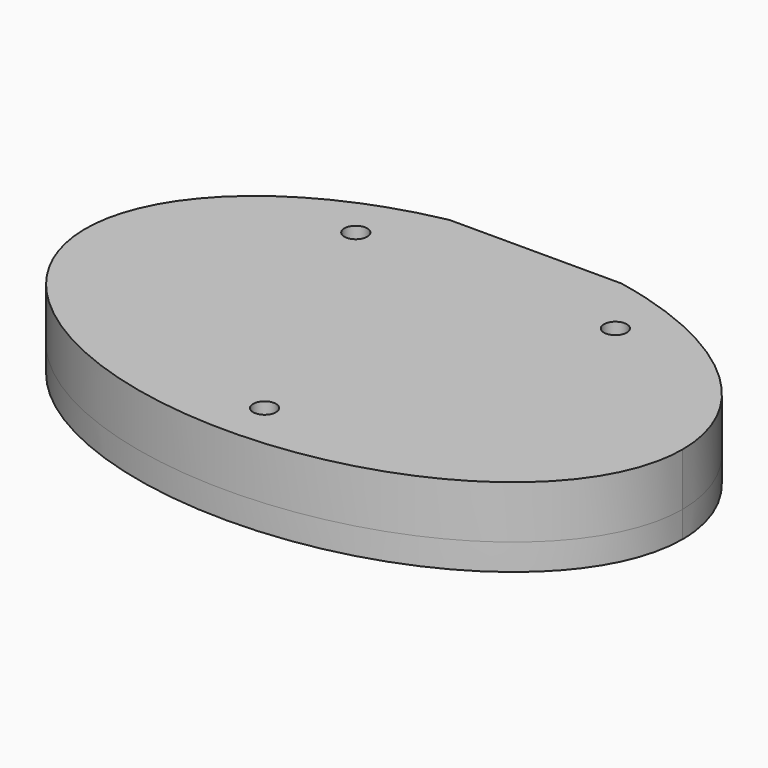
from build123d import *

# Parameters (mm, degrees)
PAD_DEPTH       = 6
POCKET_DEPTH    = 3
PAD001_DEPTH    = 3
SKETCH003_W     = 56
SKETCH003_H     = 2.88
POCKET001_DEPTH = 3
SKETCH004_W     = 19.6
SKETCH004_H     = 1
POCKET002_DEPTH = 9.001
SKETCH005_R     = 1.3
POCKET003_DEPTH = 9.001


with BuildPart() as part:
    # Sketch → Pad (new body)
    with BuildSketch(Plane.XY):
        with BuildLine():
            add(Edge.make_bspline(
                [(34, 0), (34, 38.971143), (-17, 19.485572), (-68, 0), (-17, -19.485572), (34, -38.971143), (34, 0)],
                knots=[0, 0, 0, 2.094395, 2.094395, 4.18879, 4.18879, 6.283185, 6.283185, 6.283185], degree=2, weights=[1, 0.5, 1, 0.5, 1, 0.5, 1]))
        make_face()
    extrude(amount=PAD_DEPTH)

    # Sketch001 (on Face2 of Pad) → Pocket (cut)
    with BuildSketch(Plane(origin=(0, 0, 0), x_dir=(1, 0, 0), z_dir=(0, 0, -1))):
        Polygon((9.775, -3.450064), (9.775, -21.550064), (-9.775, -21.550064), (-9.775, -3.450064), (-28.5, -3.450064), (-28.5, 8.549936), (28.5, 8.549936), (28.5, -3.450064), align=None)
    extrude(amount=-POCKET_DEPTH, mode=Mode.SUBTRACT)

    # Sketch002 (on Face2 of Pocket) → Pad001 (join)
    with BuildSketch(Plane(origin=(0, 0, 0), x_dir=(1, 0, 0), z_dir=(0, 0, -1))):
        with BuildLine():
            add(Edge.make_bspline(
                [(34, 0), (34, 38.971143), (-17, 19.485572), (-68, 0), (-17, -19.485572), (34, -38.971143), (34, 0)],
                knots=[0, 0, 0, 2.094395, 2.094395, 4.18879, 4.18879, 6.283185, 6.283185, 6.283185], degree=2, weights=[1, 0.5, 1, 0.5, 1, 0.5, 1]))
        make_face()
    extrude(amount=PAD001_DEPTH)

    # Sketch003 (on Face4 of Pad001) → Pocket001 (cut)
    with BuildSketch(Plane(origin=(0, 0, -3), x_dir=(1, 0, 0), z_dir=(0, 0, -1))):
        with Locations((0, 2.549936)):
            Rectangle(SKETCH003_W, SKETCH003_H)
    extrude(amount=-POCKET001_DEPTH, mode=Mode.SUBTRACT)

    # Sketch004 (on Face4 of Pocket001) → Pocket002 (cut, through all)
    with BuildSketch(Plane(origin=(0, 0, -3), x_dir=(1, 0, 0), z_dir=(0, 0, -1))):
        with Locations((0, -22.045091)):
            Rectangle(SKETCH004_W, SKETCH004_H)
    extrude(amount=-POCKET002_DEPTH, mode=Mode.SUBTRACT)

    # Sketch005 (on Face7 of Pocket002) → Pocket003 (cut, through all)
    with BuildSketch(Plane(origin=(0, 0, -3), x_dir=(1, 0, 0), z_dir=(0, 0, -1))):
        with Locations((-14.775, -14.450064)):
            Circle(SKETCH005_R)
        with Locations((0, 17)):
            Circle(SKETCH005_R)
        with Locations((14.775, -14.450064)):
            Circle(SKETCH005_R)
    extrude(amount=-POCKET003_DEPTH, mode=Mode.SUBTRACT)


solid = part.part
